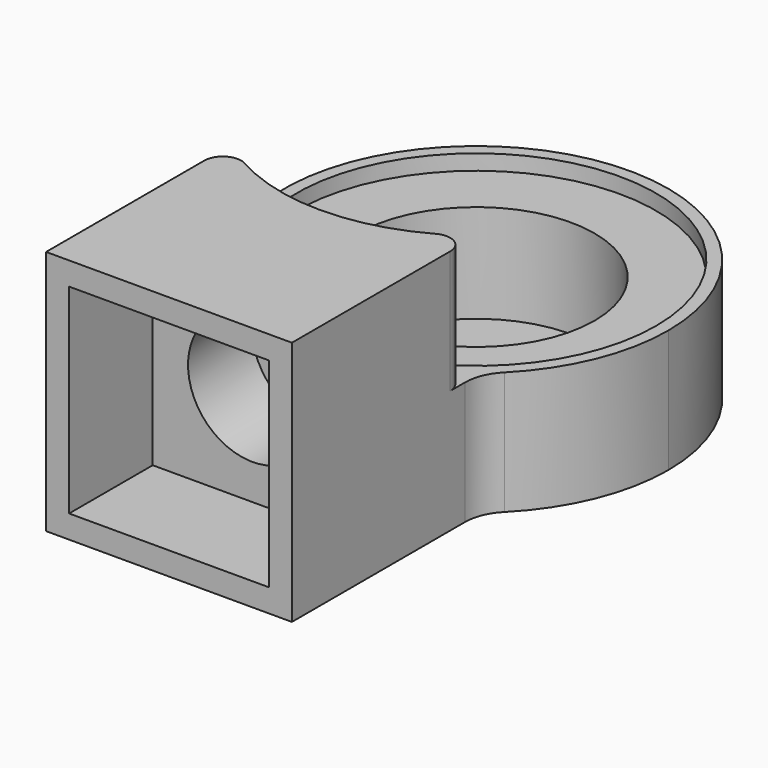
from build123d import *

# Parameters (mm, degrees)
F1_DEPTH  = 16
F2_R      = 12.7
F3_DEPTH  = 8
F4_R      = 1.2
F5_R      = 3
F6_R      = 11.7
F7_DEPTH  = 1
F8_R      = 7.7
F9_DEPTH  = 6.4
F10_W     = 13
F10_H     = 13
F11_DEPTH = 6.8
F12_R     = 4.2
F13_DEPTH = 5.2


with BuildPart() as f1:
    # F0 (on Top) → F1 (new body)
    with BuildSketch(Plane.XY):
        with BuildLine():
            ThreePointArc((8, -9.6046863561), (11.3192314227, -5.3033008589), (12.5, 0))
            ThreePointArc((12.5, 0), (-5.3033008589, 11.3192314227), (-8, -9.6046863561))
            Line((-8, -9.6046863561), (-8, 0))
            Line((-8, 0), (8, 0))
            Line((8, 0), (8, -9.6046863561))
        make_face()
        with BuildLine():
            Line((-8, 0), (-8, -9.6046863561))
            ThreePointArc((-8, -9.6046863561), (0, -12.5), (8, -9.6046863561))
            Line((8, -9.6046863561), (8, 0))
            Line((8, 0), (-8, 0))
        make_face()
        with BuildLine():
            ThreePointArc((8, -9.6046863561), (0, -12.5), (-8, -9.6046863561))
            Line((-8, -9.6046863561), (-8, -25))
            Line((-8, -25), (8, -25))
            Line((8, -25), (8, -9.6046863561))
        make_face()
    extrude(amount=F1_DEPTH)

    # F2 (on face) → F3 (cut)
    with BuildSketch(Plane.XY.offset(16)):
        Circle(F2_R)
    extrude(amount=-F3_DEPTH, mode=Mode.SUBTRACT)

    # F4
    f4_edges = [f1.edges().sort_by_distance(p)[0] for p in [
        (-8, -9.863569, 12),
        (8, -9.863569, 12),
    ]]
    fillet(f4_edges, radius=F4_R)

    # F5
    f5_edges = [f1.edges().sort_by_distance(p)[0] for p in [
        (8, -9.604686, 4),
        (-8, -9.604686, 4),
    ]]
    fillet(f5_edges, radius=F5_R)

    # F6 (on face) → F7 (cut)
    with BuildSketch(Plane.XY.offset(8)):
        Circle(F6_R)
    extrude(amount=-F7_DEPTH, mode=Mode.SUBTRACT)

    # F8 (on face) → F9 (cut)
    with BuildSketch(Plane.XY.offset(7)):
        Circle(F8_R)
    extrude(amount=-F9_DEPTH, mode=Mode.SUBTRACT)

    # F10 (on face) → F11 (cut)
    with BuildSketch(Plane.XZ.offset(25)):
        with Locations((0, 8)):
            Rectangle(F10_W, F10_H)
    extrude(amount=-F11_DEPTH, mode=Mode.SUBTRACT)

    # F12 (on face) → F13 (cut)
    with BuildSketch(Plane.XZ.offset(18.2)):
        with Locations((0, 8)):
            Circle(F12_R)
    extrude(amount=-F13_DEPTH, mode=Mode.SUBTRACT)


solid = f1.part
